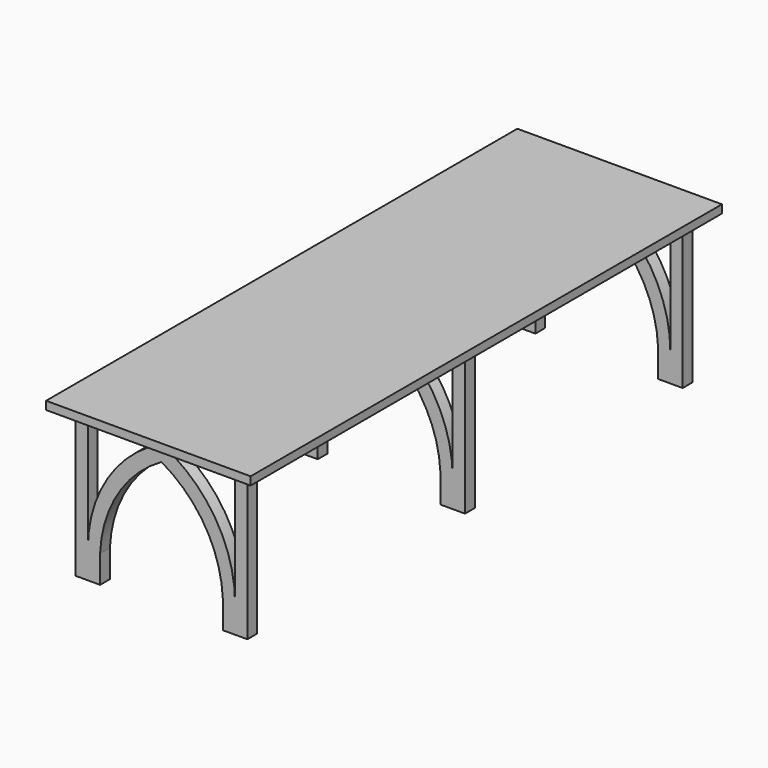
from build123d import *

# Parameters (mm, degrees)
F3_DEPTH = 76.2
F8_W     = 1270
F8_H     = 3657.6
F9_DEPTH = 50.8


with BuildPart() as f3:
    # F2 (on line) → F3 (new body)
    with BuildSketch(Plane(origin=(0, -1727.2, 0), x_dir=(-1, 0, 0), z_dir=(0, 1, 0))):
        Polygon((76.2, 0), (0, 0), (0, -914.4), (76.2, -914.4), (76.2, -742.60971566), align=None)
        with BuildLine():
            ThreePointArc((533.4, -20.4810089839), (200.1093272439, -315.2627521147), (76.2, -742.60971566))
            Line((76.2, -742.60971566), (76.2, -914.4))
            Line((76.2, -914.4), (152.4, -914.4))
            Line((152.4, -914.4), (152.4, -742.60971566))
            ThreePointArc((152.4, -742.60971566), (262.252211808, -381.3604023556), (533.4, -118.5915842652))
            ThreePointArc((533.4, -118.5915842652), (804.547788192, -381.3604023556), (914.4, -742.60971566))
            Line((914.4, -742.60971566), (914.4, -914.4))
            Line((914.4, -914.4), (990.6, -914.4))
            Line((990.6, -914.4), (990.6, -742.60971566))
            ThreePointArc((990.6, -742.60971566), (866.6906727561, -315.2627521147), (533.4, -20.4810089839))
        make_face()
        Polygon((990.6, 0), (990.6, -742.60971566), (990.6, -914.4), (1066.8, -914.4), (1066.8, 0), align=None)
    extrude(amount=F3_DEPTH)


with BuildPart() as f6_1:
    # F6: instance of F3
    add(f3.part.mirror(Plane.XZ.offset(844.55)))


with BuildPart() as f7_1:
    # F7: instance of F3
    add(f3.part.mirror(Plane.XZ))


with BuildPart() as f9:
    # F8 (on Top) → F9 (new body)
    with BuildSketch(Plane.XY):
        with Locations((-533.4, 0)):
            Rectangle(F8_W, F8_H)
    extrude(amount=F9_DEPTH)


solid = Compound([f3.part, f6_1.part, f7_1.part, f9.part])
